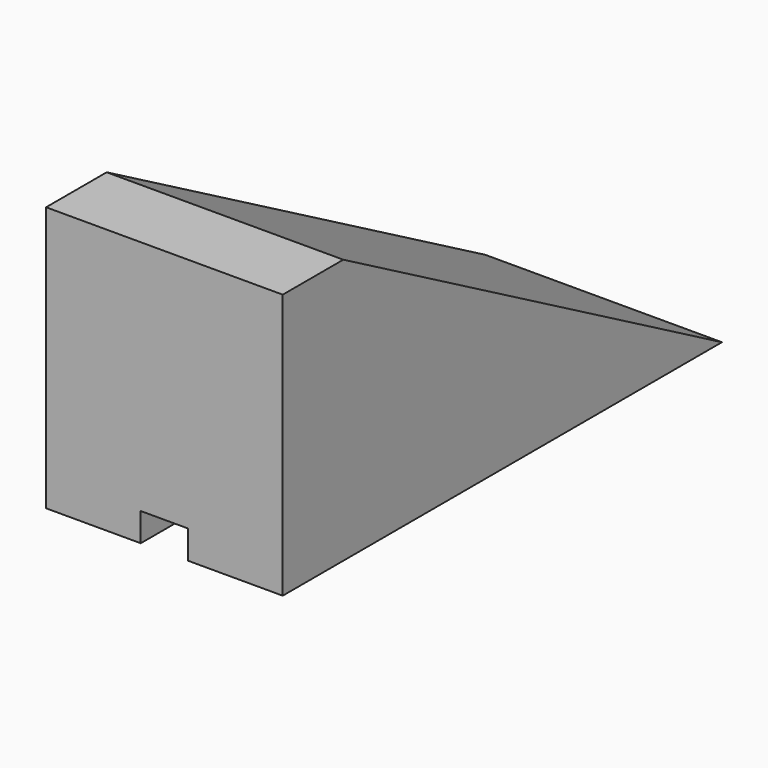
from build123d import *

# Parameters (mm, degrees)
F1_DEPTH = 63.5
F2_W     = 12.7
F2_H     = 7.62
F3_DEPTH = 25.4


with BuildPart() as f1:
    # F0 (on Right) → F1 (new body)
    with BuildSketch(Plane.YZ):
        Polygon((0, 71.12), (0, 0), (147.32, 0), (20.32, 71.12), align=None)
    extrude(amount=F1_DEPTH)

    # F2 (on Front) → F3 (cut)
    with BuildSketch(Plane.XZ):
        with Locations((31.75, 3.81)):
            Rectangle(F2_W, F2_H)
    extrude(amount=-F3_DEPTH, mode=Mode.SUBTRACT)


solid = f1.part
